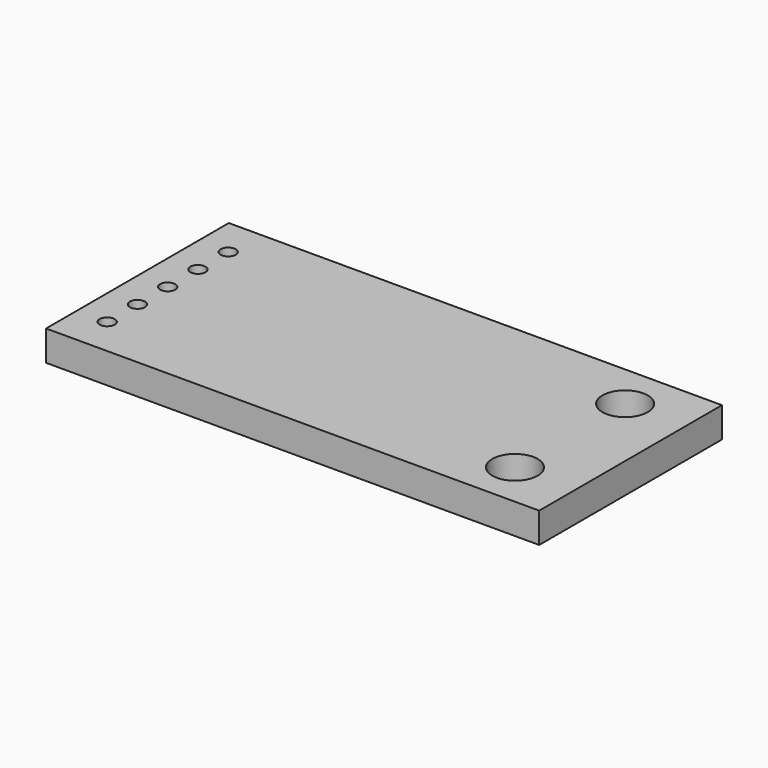
from build123d import *

# Parameters (mm, degrees)
SKETCH_W   = 32.6
SKETCH_H   = 15.1
SKETCH_R   = 0.5
SKETCH_R_2 = 1.5
PAD_DEPTH  = 2


with BuildPart() as part:
    # Sketch → Pad (new body)
    with BuildSketch(Plane.XY):
        with Locations((16.315278, 7.55)):
            Rectangle(SKETCH_W, SKETCH_H)
        with Locations((2.015278, 12.55)):
            Circle(SKETCH_R, mode=Mode.SUBTRACT)
        with Locations((2.015278, 10.05)):
            Circle(SKETCH_R, mode=Mode.SUBTRACT)
        with Locations((2.015278, 7.55)):
            Circle(SKETCH_R, mode=Mode.SUBTRACT)
        with Locations((2.015278, 5.05)):
            Circle(SKETCH_R, mode=Mode.SUBTRACT)
        with Locations((2.015278, 2.55)):
            Circle(SKETCH_R, mode=Mode.SUBTRACT)
        with Locations((28.615278, 12.1)):
            Circle(SKETCH_R_2, mode=Mode.SUBTRACT)
        with Locations((28.615278, 3)):
            Circle(SKETCH_R_2, mode=Mode.SUBTRACT)
    extrude(amount=PAD_DEPTH)


solid = part.part
